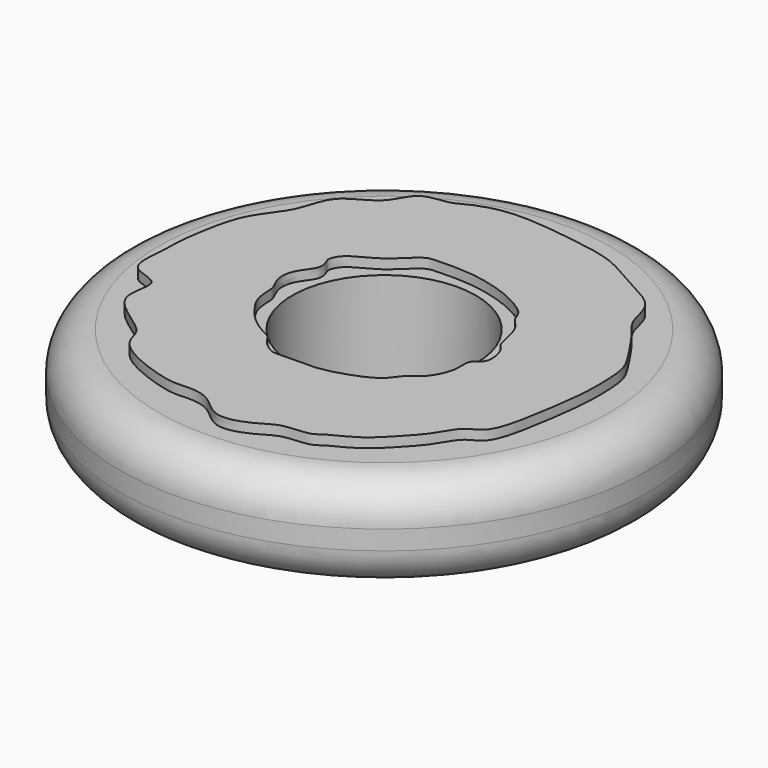
from build123d import *

# Parameters (mm, degrees)
F0_R     = 34.9048984543
F0_R_2   = 12.1527980699
F1_DEPTH = 12.7
F2_R     = 5.08
F4_DEPTH = 1.27


with BuildPart() as f1:
    # F0 (on Top) → F1 (new body)
    with BuildSketch(Plane.XY):
        Circle(F0_R)
        Circle(F0_R_2, mode=Mode.SUBTRACT)
    extrude(amount=F1_DEPTH)

    # F2
    f2_edges = [f1.edges().sort_by_distance(p)[0] for p in [
        (-34.904898, 0, 12.7),
        (-34.904898, 0, 0),
    ]]
    fillet(f2_edges, radius=F2_R)

    # F3 (on face) → F4 (join)
    with BuildSketch(Plane.XY.offset(12.7)):
        with BuildLine():
            add(Edge.make_bspline(
                [(-26.5100551654, 5.3025482653), (-26.1775777626, 6.8846169353), (-25.426195352, 9.5585165622), (-21.9599620725, 13.2508842839), (-21.4252105627, 18.3671331529), (-15.9727257648, 20.0075396378), (-14.9639394482, 24.2717931622), (-10.9251498531, 24.302647067), (-9.6494450341, 25.1539680098), (-5.0619142731, 27.1501426479), (2.9364188774, 26.116961143), (6.7036171526, 25.5379932802), (10.6573871921, 24.6835871523), (14.7573917291, 21.9289202724), (19.8180312275, 19.7593649997), (20.0754768641, 15.508502344), (22.3122742945, 13.2150420094), (24.8687428198, 9.2649676537), (26.236280157, 7.0748050493), (26.5683677316, 4.4839498923), (26.6193868693, -0.2692160734), (25.7996004959, -5.6893312188), (24.5512615162, -13.1987913778), (21.578184924, -13.7490691282), (20.0764117368, -16.9529506973), (17.9606986403, -19.178065747), (14.9930384746, -22.4425316877), (11.3987416677, -23.930893903), (10.2145760957, -25.1338947759), (6.5252356299, -24.9949833096), (4.5608388803, -26.5977986597), (-0.3282395602, -28.505967202), (-3.0228034633, -24.8122338538), (-6.5203870216, -24.6024105997), (-8.5916996145, -24.949725655), (-15.4151885755, -22.6854209451), (-17.8056764162, -20.1002806496), (-17.8320100644, -17.3412685699), (-25.5374880979, -13.8491124827), (-22.3203884827, -7.8713385294), (-28.1023951514, -7.8568396436), (-27.2118988499, -2.6878447966), (-27.4462290339, -0.0881844475), (-26.8778790381, 3.5522860815), (-26.5100551654, 5.3025482653)],
                knots=[0, 0, 0, 0, 0.025100786, 0.0515006218, 0.0773255314, 0.1040306197, 0.1273197637, 0.1492832246, 0.164081176, 0.1900751577, 0.2243019929, 0.2479894376, 0.2713402254, 0.2984043621, 0.3255565574, 0.3484870803, 0.3699597782, 0.3959232575, 0.4150270568, 0.4338460561, 0.4595033209, 0.4890200017, 0.5206327041, 0.5394411367, 0.5609391522, 0.5822888361, 0.6076150408, 0.6307996414, 0.6460459422, 0.6677757373, 0.6875397802, 0.7129385858, 0.7369874319, 0.7581334928, 0.7759446845, 0.8076475688, 0.8294756985, 0.8479459894, 0.8797763389, 0.9047748222, 0.9273435385, 0.9516656917, 0.9722306893, 1, 1, 1, 1], degree=3))
        make_face()
        with BuildLine():
            add(Edge.make_bspline(
                [(-8.2345250994, -9.8908804357), (-8.9458392351, -9.5077807042), (-10.4796691233, -8.4184923399), (-12.1360387292, -6.2750376945), (-12.9938535956, -4.8039571077), (-13.2324693915, -2.9931588743), (-13.1757401303, -1.6536349206), (-14.3209037, -0.023337251), (-14.0993769033, 2.6719629583), (-11.9404804521, 4.6761098619), (-12.703481489, 6.405467504), (-12.8270839215, 6.8461358452), (-12.1870236759, 8.6423072838), (-8.3907459178, 10.0632211102), (-6.1838251076, 12.6596780289), (-4.8642778852, 13.4572863575), (-3.6846315329, 13.5327673731), (1.1519526403, 13.6553067722), (5.36757979, 12.383916271), (6.6595896273, 11.8826377743), (10.3183048343, 10.0264907592), (10.4159916441, 8.1984792068), (12.4250757614, 6.8298506824), (12.7447125275, 2.7914965118), (13.9021599523, 2.3617307527), (14.766156634, -1.0990731298), (12.5061772416, -1.7898654847), (13.2624840148, -4.4604368238), (11.2721736916, -7.9077944769), (9.6875825909, -8.3312970087), (8.4885998665, -10.8584573841), (4.4735377468, -12.2892439529), (2.7870594142, -12.7787865045), (1.0875259556, -13.0256788093), (-0.004663569, -12.9438511878), (-1.6958781493, -13.0854122441), (-3.5055324331, -13.0311735162), (-4.594827104, -13.0923767332), (-6.3679345671, -11.6856389284), (-6.7361202326, -10.554745759), (-7.6880893504, -10.1851799276), (-8.2345250994, -9.8908804357)],
                knots=[0, 0, 0, 0, 0.0288870196, 0.057944713, 0.0810043624, 0.1043657751, 0.1245209765, 0.1485684828, 0.1767724173, 0.2059978311, 0.2278954912, 0.2395761953, 0.2615216197, 0.2971537523, 0.3300230686, 0.3505952844, 0.3690190178, 0.4080821431, 0.4449622392, 0.4669432769, 0.5011460234, 0.5235415436, 0.550080748, 0.5838900853, 0.6030704416, 0.6331911008, 0.6560743488, 0.6833370713, 0.7174514504, 0.739055769, 0.7672615976, 0.8032362912, 0.8273677527, 0.8496844786, 0.8682142027, 0.8912773472, 0.9149577274, 0.9333814579, 0.958976503, 0.9778088198, 1, 1, 1, 1], degree=3))
        make_face(mode=Mode.SUBTRACT)
    extrude(amount=F4_DEPTH)


solid = f1.part
